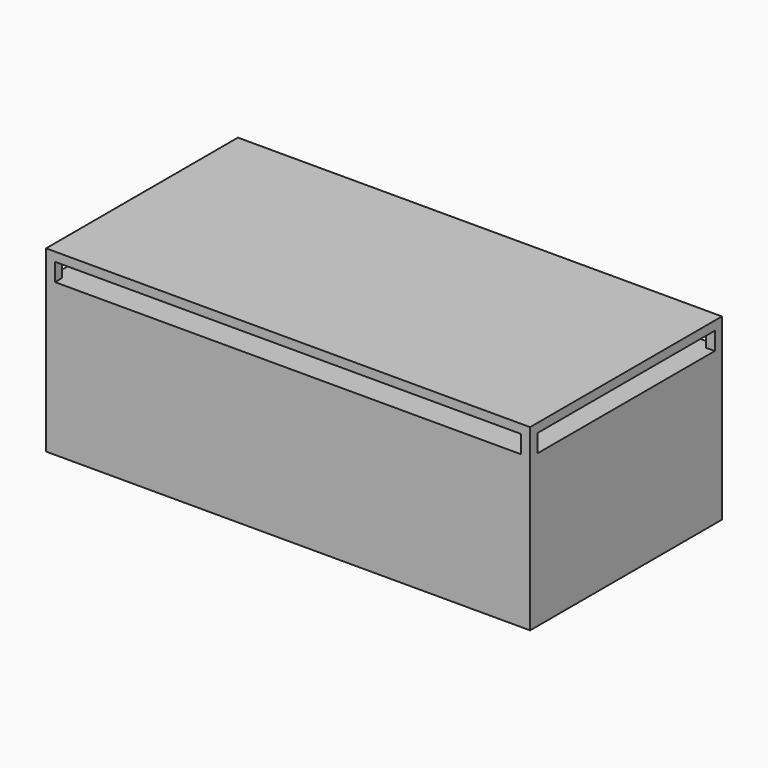
from build123d import *

# Parameters (mm, degrees)
F0_W     = 270.5
F0_H     = 134
F1_DEPTH = 100
F2_W     = 124
F2_H     = 10
F3_DEPTH = 270.501
F4_W     = 260.5
F4_H     = 10
F5_DEPTH = 134.001


with BuildPart() as f1:
    # F0 (on Top) → F1 (new body)
    with BuildSketch(Plane.XY):
        Rectangle(F0_W, F0_H)
    extrude(amount=F1_DEPTH)

    # F2 (on face) → F3 (cut, through all)
    with BuildSketch(Plane(origin=(-135.25, 0, 0), x_dir=(0, -1, 0), z_dir=(-1, 0, 0))):
        with Locations((0, 90)):
            Rectangle(F2_W, F2_H)
    extrude(amount=-F3_DEPTH, mode=Mode.SUBTRACT)

    # F4 (on face) → F5 (cut, through all)
    with BuildSketch(Plane(origin=(0, 67, 0), x_dir=(-1, 0, 0), z_dir=(0, 1, 0))):
        with Locations((0, 90)):
            Rectangle(F4_W, F4_H)
    extrude(amount=-F5_DEPTH, mode=Mode.SUBTRACT)


solid = f1.part
